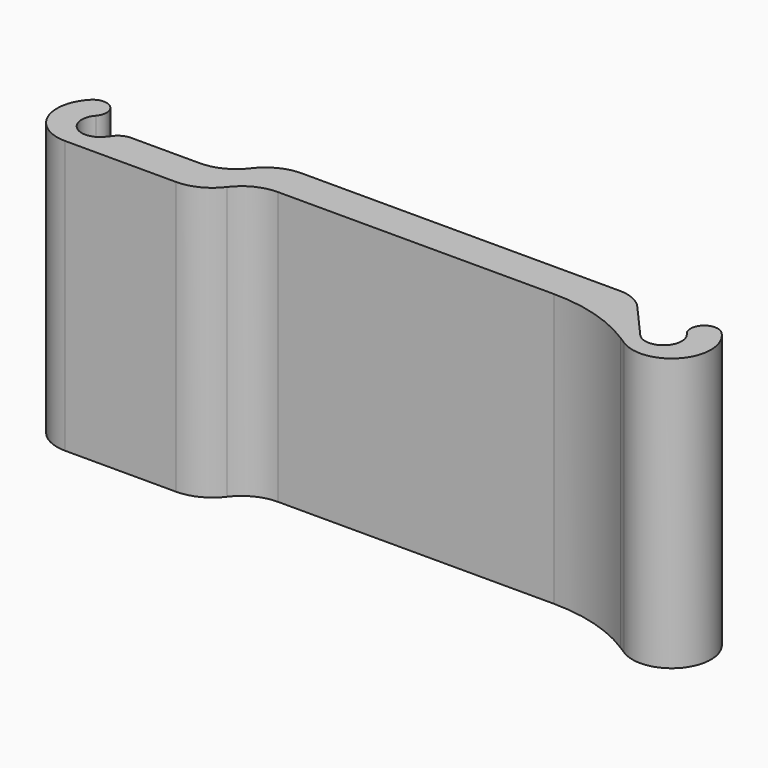
from build123d import *

# Parameters (mm, degrees)
F1_DEPTH = 15


with BuildPart() as f1:
    # F0 (on Top) → F1 (new body)
    with BuildSketch(Plane.XY):
        with BuildLine():
            Line((11.5, -2), (-6, -2))
            ThreePointArc((-6, -2), (-7.118034, -2.263932), (-8, -3))
            ThreePointArc((-8, -3), (-8.881966, -3.736068), (-10, -4))
            Line((-10, -4), (-13.781936, -4))
            ThreePointArc((-13.781936, -4), (-14.249819, -4.128131), (-14.587137, -4.476769))
            Line((-14.587137, -4.476769), (-14.75, -4.661438))
            ThreePointArc((-14.75, -4.661438), (-16.161438, -4.75), (-16.25, -3.338562))
            ThreePointArc((-16.25, -3.338562), (-16.297339, -2.296813), (-17.340101, -2.308184))
            ThreePointArc((-17.340101, -2.308184), (-17.819996, -4.662142), (-15.824614, -6))
            Line((-15.824614, -6), (-9.711234, -6))
            ThreePointArc((-9.711234, -6), (-8.5932, -5.736068), (-7.711234, -5))
            ThreePointArc((-7.711234, -5), (-6.829268, -4.263932), (-5.711234, -4))
            Line((-5.711234, -4), (9.466364, -4))
            ThreePointArc((9.466364, -4), (11.959979, -4.356858), (14.253416, -5.398784))
            Line((14.253416, -5.398784), (14.663239, -5.660644))
            ThreePointArc((14.663239, -5.660644), (17.510169, -5.188916), (17.340101, -2.308184))
            ThreePointArc((17.340101, -2.308184), (16.297339, -2.296813), (16.25, -3.338562))
            ThreePointArc((16.25, -3.338562), (16.161438, -4.75), (14.75, -4.661438))
            Line((14.75, -4.661438), (13, -2.677124))
            ThreePointArc((13, -2.677124), (12.322876, -2.177124), (11.5, -2))
        make_face()
    extrude(amount=F1_DEPTH)


solid = f1.part
